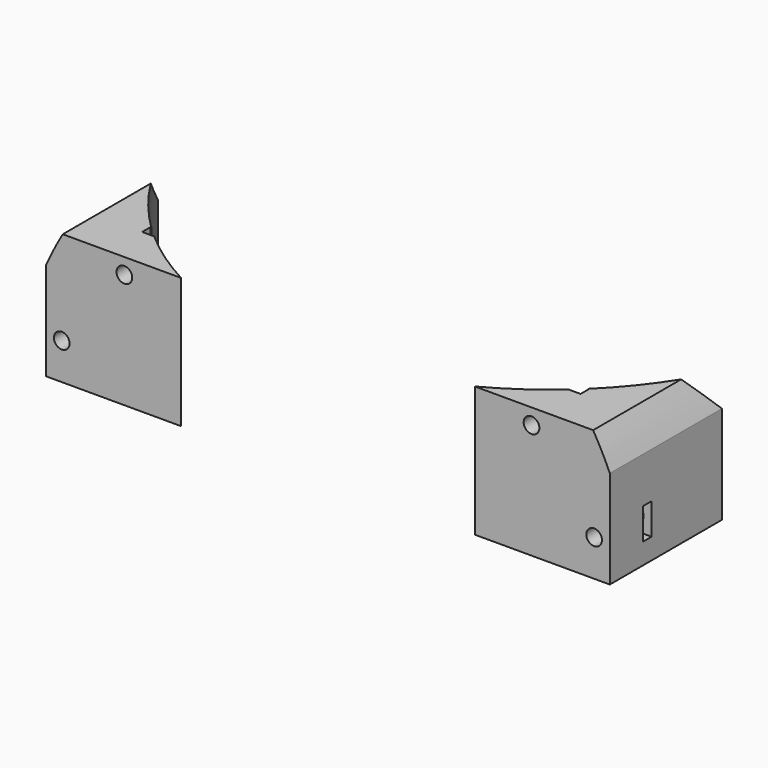
from build123d import *

# Parameters (mm, degrees)
CYLINDER1442_R     = 1.5
CYLINDER1442_DEPTH = 40
CYLINDER1441_R     = 1.5
CYLINDER1441_DEPTH = 40
BOX485_W           = 6
BOX485_H           = 2
BOX485_DEPTH       = 6
BOX486_W           = 6
BOX486_H           = 2
BOX486_DEPTH       = 6
CYLINDER1440_R     = 59
CYLINDER1440_DEPTH = 40
BOX475_W           = 6
BOX475_H           = 2
BOX475_DEPTH       = 6
BOX474_W           = 6
BOX474_H           = 2
BOX474_DEPTH       = 6
CYLINDER1428_R     = 1.5
CYLINDER1428_DEPTH = 40
CYLINDER1427_R     = 1.5
CYLINDER1427_DEPTH = 40
CYLINDER1439_R     = 60
CYLINDER1439_DEPTH = 25
BOX484_W           = 108
BOX484_H           = 46
BOX484_DEPTH       = 25


with BuildPart() as obj1:
    # Cylinder1442 → Cylinder1442 (new body)
    with BuildSketch(Plane(origin=(-39, -40, 59), x_dir=(1, 0, 0), z_dir=(0, -1, 0))):
        Circle(CYLINDER1442_R)
    extrude(amount=CYLINDER1442_DEPTH)


with BuildPart() as compound847:
    # Cylinder1441 → Cylinder1441 (new body)
    with BuildSketch(Plane(origin=(39, -40, 59), x_dir=(1, 0, 0), z_dir=(0, -1, 0))):
        Circle(CYLINDER1441_R)
    extrude(amount=CYLINDER1441_DEPTH)

    # Compound847: union obj1
    add(obj1.part)


with BuildPart() as compound847_1:
    # Compound847 placement: moved
    add(compound847.part.moved(Location((0, 0, -5))))


with BuildPart() as krychle485:
    # Box485 → Box485 (new body)
    with BuildSketch(Plane(origin=(36, -47, 56), x_dir=(1, 0, 0), z_dir=(0, 0, 1))):
        with Locations((3, 1)):
            Rectangle(BOX485_W, BOX485_H)
    extrude(amount=BOX485_DEPTH)


with BuildPart() as compound850:
    # Box486 → Box486 (new body)
    with BuildSketch(Plane(origin=(-42, -47, 56), x_dir=(1, 0, 0), z_dir=(0, 0, 1))):
        with Locations((3, 1)):
            Rectangle(BOX486_W, BOX486_H)
    extrude(amount=BOX486_DEPTH)

    # Compound850: union Krychle485
    add(krychle485.part)


with BuildPart() as compound850_1:
    # Compound850 placement: moved
    add(compound850.part.moved(Location((0, 2, -5))))


with BuildPart() as obj2:
    # Cylinder1440 → Cylinder1440 (new body)
    with BuildSketch(Plane(origin=(0, -17, 27), x_dir=(1, 0, 0), z_dir=(0, -1, 0))):
        Circle(CYLINDER1440_R)
    extrude(amount=CYLINDER1440_DEPTH)


with BuildPart() as krychle475:
    # Box475 → Box475 (new body)
    with BuildSketch(Plane(origin=(-54, -45, 35), x_dir=(1, 0, 0), z_dir=(0, 0, 1))):
        with Locations((3, 1)):
            Rectangle(BOX475_W, BOX475_H)
    extrude(amount=BOX475_DEPTH)


with BuildPart() as compound853:
    # Box474 → Box474 (new body)
    with BuildSketch(Plane(origin=(48, -45, 35), x_dir=(1, 0, 0), z_dir=(0, 0, 1))):
        with Locations((3, 1)):
            Rectangle(BOX474_W, BOX474_H)
    extrude(amount=BOX474_DEPTH)

    # Compound853: union Krychle475
    add(krychle475.part)


with BuildPart() as compound853_1:
    # Compound853 placement: moved
    add(compound853.part.moved(Location((0, 0, -11))))


with BuildPart() as obj3:
    # Cylinder1428 → Cylinder1428 (new body)
    with BuildSketch(Plane(origin=(51, -40, 38), x_dir=(1, 0, 0), z_dir=(0, -1, 0))):
        Circle(CYLINDER1428_R)
    extrude(amount=CYLINDER1428_DEPTH)


with BuildPart() as compound851:
    # Cylinder1427 → Cylinder1427 (new body)
    with BuildSketch(Plane(origin=(-51, -40, 38), x_dir=(1, 0, 0), z_dir=(0, -1, 0))):
        Circle(CYLINDER1427_R)
    extrude(amount=CYLINDER1427_DEPTH)

    # Compound851: union obj3
    add(obj3.part)


with BuildPart() as compound851_1:
    # Compound851 placement: moved
    add(compound851.part.moved(Location((0, 8, -11))))


with BuildPart() as obj4:
    # Cylinder1439 → Cylinder1439 (new body)
    with BuildSketch(Plane.XY.offset(20)):
        Circle(CYLINDER1439_R)
    extrude(amount=CYLINDER1439_DEPTH)


with BuildPart() as cut471:
    # Box484 → Box484 (new body)
    with BuildSketch(Plane(origin=(-54, -53, 20), x_dir=(1, 0, 0), z_dir=(0, 0, 1))):
        with Locations((54, 23)):
            Rectangle(BOX484_W, BOX484_H)
    extrude(amount=BOX484_DEPTH)

    # Cut458: cut obj4
    add(obj4.part, mode=Mode.SUBTRACT)

    # Cut468: cut Compound851
    add(compound851_1.part, mode=Mode.SUBTRACT)

    # Cut455: cut Compound853
    add(compound853_1.part, mode=Mode.SUBTRACT)


with BuildPart() as cut471_1:
    # Cut455 placement: moved
    add(cut471.part.moved(Location((0, 0, 12))))

    # Common002: intersect obj2
    add(obj2.part, mode=Mode.INTERSECT)

    # Cut470: cut Compound850
    add(compound850_1.part, mode=Mode.SUBTRACT)

    # Cut471: cut Compound847
    add(compound847_1.part, mode=Mode.SUBTRACT)


solid = cut471_1.part
